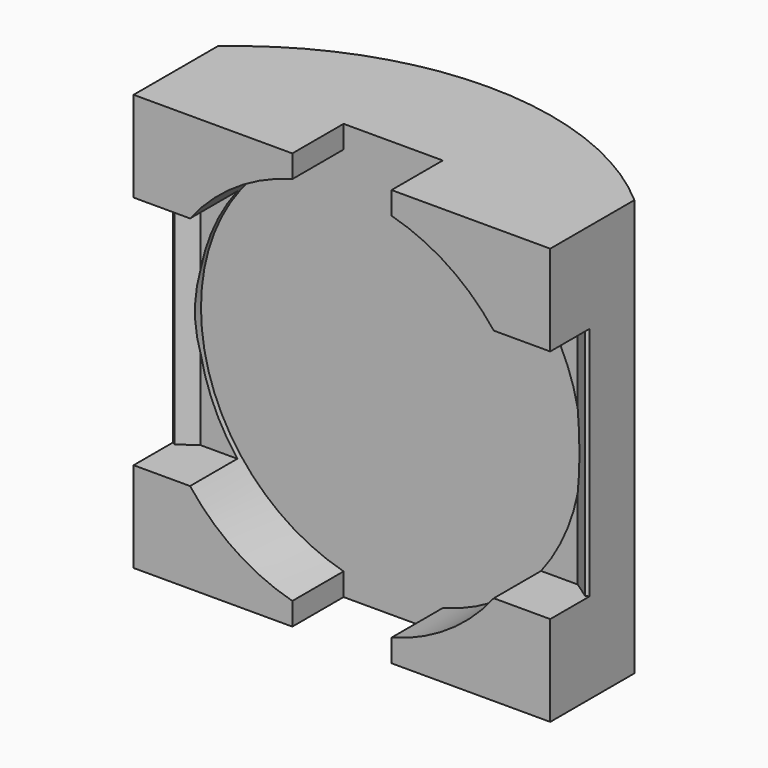
from build123d import *

# Parameters (mm, degrees)
PAD017_DEPTH         = 16.8
PAD017_DEPTH_BACK    = 16.8
POCKET017_DEPTH      = 9.5
POCKET017_DEPTH_BACK = 9.5
CHAMFER009_SIZE      = 0.3
POCKET018_DEPTH      = 15.866909


with BuildPart() as part:
    # Sketch033 → Pad017 (new body, two sides)
    with BuildSketch(Plane.XY) as pad017_sk:
        with BuildLine():
            Line((-16.8, 10.7), (16.8, 10.7))
            Line((16.8, 10.7), (16.8, 19.183587))
            ThreePointArc((16.8, 19.183587), (0, 25.5), (-16.8, 19.183587))
            Line((-16.8, 10.7), (-16.8, 19.183587))
        make_face()
    extrude(amount=PAD017_DEPTH)
    extrude(pad017_sk.sketch, amount=-PAD017_DEPTH_BACK)

    # Sketch034 → Pocket017 (cut, two sides)
    with BuildSketch(Plane.XY) as pocket017_sk:
        with BuildLine():
            Line((-15.2, 15.466909), (15.2, 15.466909))
            Line((15.2, 15.466909), (21, 11.466909))
            Line((21, 11.466909), (23, 11.466909))
            ThreePointArc((24.265231, 8.466909), (23.680172, 9.986965), (23, 11.466909))
            Line((11, 10.5), (24.265231, 8.466909))
            Line((11, 10.5), (-11, 10.5))
            Line((-11, 10.5), (-24.265231, 8.466909))
            ThreePointArc((-23, 11.466909), (-23.680172, 9.986965), (-24.265231, 8.466909))
            Line((-21, 11.466909), (-23, 11.466909))
            Line((-15.2, 15.466909), (-21, 11.466909))
        make_face()
    extrude(amount=-POCKET017_DEPTH, mode=Mode.SUBTRACT)
    extrude(pocket017_sk.sketch, amount=POCKET017_DEPTH_BACK, mode=Mode.SUBTRACT)

    # Chamfer009
    chamfer009_edges = [part.edges().sort_by_distance(p)[0] for p in [
        (-16.8, 14.363461, 0),
        (16.8, 14.363461, 0),
    ]]
    chamfer(chamfer009_edges, length=CHAMFER009_SIZE)

    # Sketch035 → Pocket018 (cut)
    with BuildSketch(Plane.XZ):
        with BuildLine():
            Line((-4, 14.974979), (-4, 27.304979))
            Line((-4, 27.304979), (4, 27.304979))
            Line((4, 27.304979), (4, 14.974979))
            ThreePointArc((4, -14.974979), (15.5, 0), (4, 14.974979))
            Line((4, -27.304979), (4, -14.974979))
            Line((-4, -27.304979), (4, -27.304979))
            Line((-4, -14.974979), (-4, -27.304979))
            ThreePointArc((-4, 14.974979), (-15.5, 0), (-4, -14.974979))
        make_face()
    extrude(amount=-POCKET018_DEPTH, mode=Mode.SUBTRACT)


with BuildPart() as part_1:
    # Body015 placement: moved
    add(part.part.moved(Location((0, 135, 0))))


solid = part_1.part
